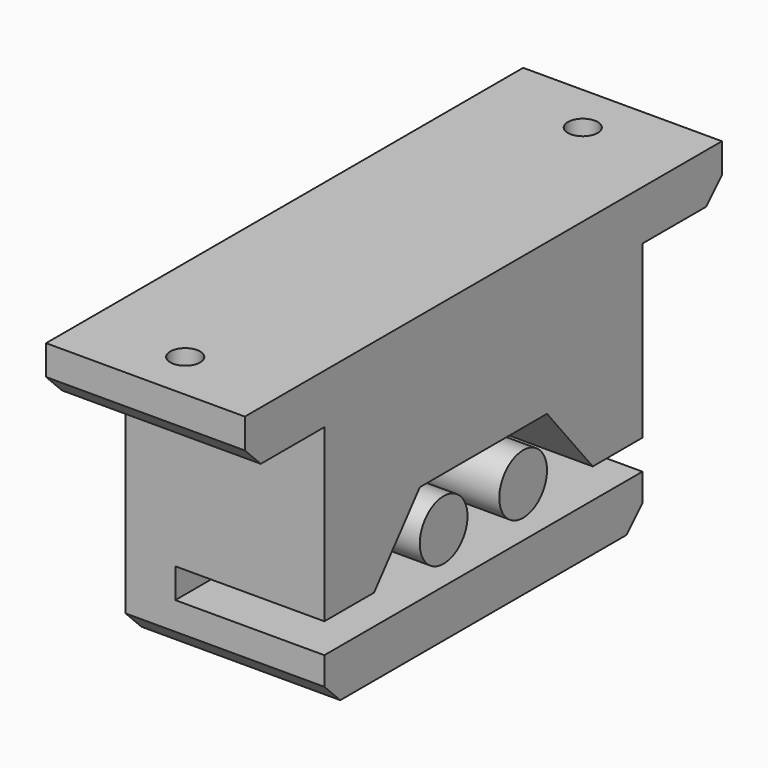
from build123d import *

# Parameters (mm, degrees)
SKETCH_W        = 20
SKETCH_H        = 60
SKETCH_R        = 1.5
PAD_DEPTH       = 30
SKETCH001_W     = 20
SKETCH001_H     = 10
POCKET_DEPTH    = 25
SKETCH002_R     = 3
POCKET001_DEPTH = 15
CHAMFER_SIZE    = 2
CHAMFER001_SIZE = 2


with BuildPart() as part:
    # Sketch → Pad (new body)
    with BuildSketch(Plane.XY):
        with Locations((10, 30)):
            Rectangle(SKETCH_W, SKETCH_H)
        with Locations((10, 55)):
            Circle(SKETCH_R, mode=Mode.SUBTRACT)
        with Locations((10, 5)):
            Circle(SKETCH_R, mode=Mode.SUBTRACT)
    extrude(amount=PAD_DEPTH)

    # Sketch001 (on Face7 of Pad) → Pocket (cut)
    with BuildSketch(Plane(origin=(0, 0, 0), x_dir=(1, 0, 0), z_dir=(0, 0, -1))):
        with Locations((10, -5)):
            Rectangle(SKETCH001_W, SKETCH001_H)
        with Locations((10, -55)):
            Rectangle(SKETCH001_W, SKETCH001_H)
    extrude(amount=-POCKET_DEPTH, mode=Mode.SUBTRACT)

    # Sketch002 (on Face3 of Pocket) → Pocket001 (cut)
    with BuildSketch(Plane.YZ.offset(20)):
        Polygon((10, 7.8), (10, 4.8), (50, 4.8), (50, 7.8), (43.75, 7.8), (38, 14.8), (22, 14.8), (16.25, 7.8), align=None)
        with Locations((25, 9.8)):
            Circle(SKETCH002_R, mode=Mode.SUBTRACT)
        with Locations((35, 9.8)):
            Circle(SKETCH002_R, mode=Mode.SUBTRACT)
    extrude(amount=-POCKET001_DEPTH, mode=Mode.SUBTRACT)

    # Chamfer
    chamfer_edges = [part.edges().sort_by_distance(p)[0] for p in [
        (10, 0, 25),
        (10, 60, 25),
    ]]
    chamfer(chamfer_edges, length=CHAMFER_SIZE)

    # Chamfer001
    chamfer001_edges = [part.edges().sort_by_distance(p)[0] for p in [
        (10, 10, 0),
        (10, 50, 0),
    ]]
    chamfer(chamfer001_edges, length=CHAMFER001_SIZE)


solid = part.part
